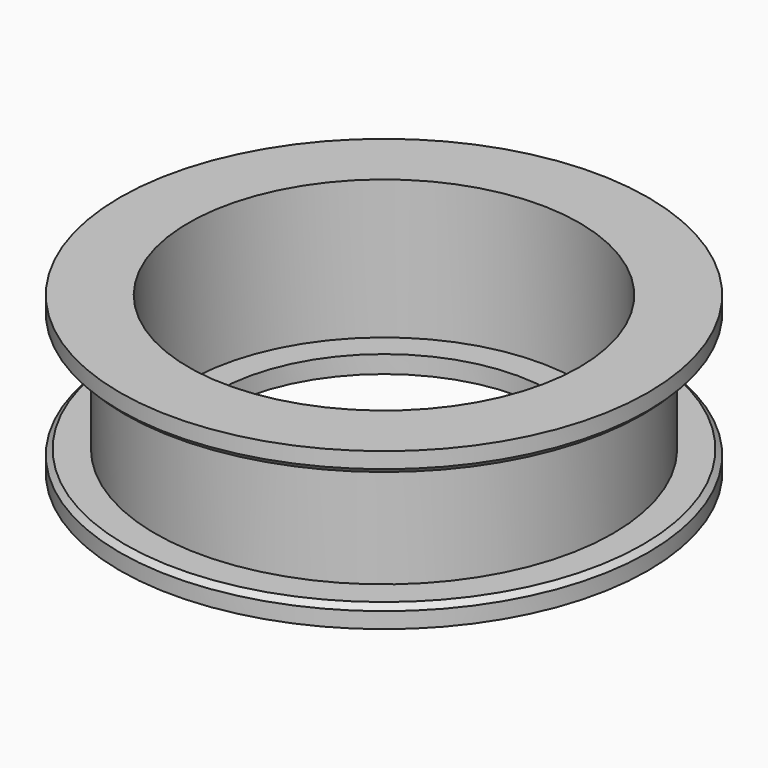
from build123d import *

# Parameters (mm, degrees)
F2_R     = 9.5
F3_DEPTH = 8.9
F2_R_2   = 11.1
F4_DEPTH = 7.9
F5_SIZE  = 0.3


with BuildPart() as f1:
    # F0 (on Front) → F1 (revolve)
    with BuildSketch(Plane.XZ):
        Polygon((15, 4.45), (0, 4.45), (0, -4.45), (15, -4.45), (15, -3.25), (13, -3.25), (13, 3.25), (15, 3.25), align=None)
    revolve(axis=Axis((0, 0, 0), (0, 0, -1)))

    # F2 (on face) → F3 (cut, through all)
    with BuildSketch(Plane.XY.offset(4.45)):
        Circle(F2_R)
    extrude(amount=-F3_DEPTH, mode=Mode.SUBTRACT)

    # F2 (on face) → F4 (cut)
    with BuildSketch(Plane.XY.offset(4.45)):
        Circle(F2_R_2)
        Circle(F2_R, mode=Mode.SUBTRACT)
    extrude(amount=-F4_DEPTH, mode=Mode.SUBTRACT)

    # F5
    f5_edges = [f1.edges().sort_by_distance(p)[0] for p in [
        (-15, 0, -3.25),
        (-15, 0, 3.25),
    ]]
    chamfer(f5_edges, length=F5_SIZE)


solid = f1.part
